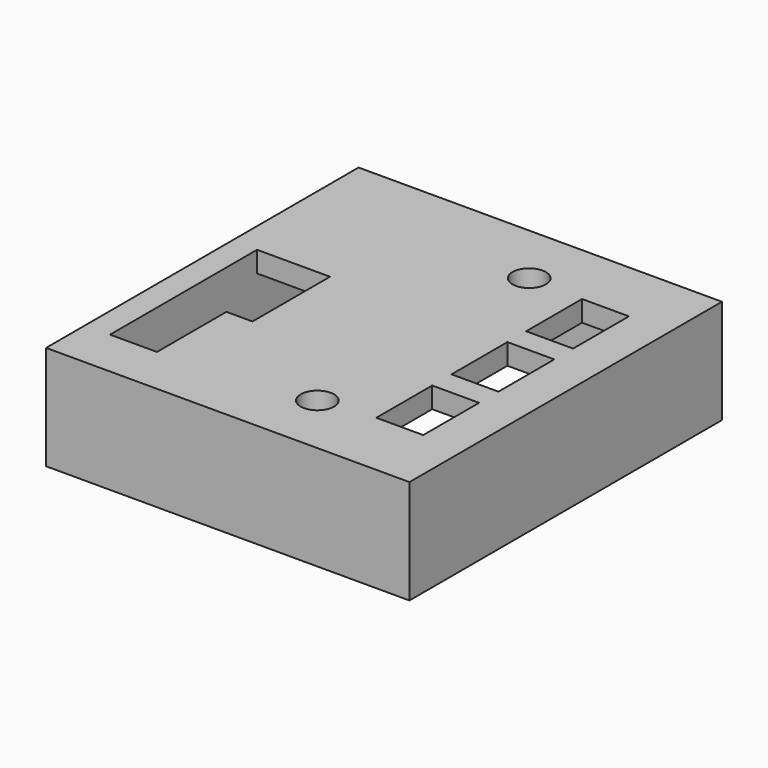
from build123d import *

# Parameters (mm, degrees)
F0_W     = 34.86
F0_H     = 37.47
F0_R     = 2.8
F0_W_2   = 4.5
F0_H_2   = 6.7
F0_R_2   = 1.6
F1_DEPTH = 2
F2_DEPTH = 8
F3_DEPTH = 2


with BuildPart() as f1:
    # F0 (on Top) → F1 (new body)
    with BuildSketch(Plane.XY):
        Rectangle(F0_W, F0_H)
        Polygon((15.03, 16.335), (15.03, -16.335), (-15.03, -16.335), (-15.03, -14.065), (-15.03, 3.565), (-15.03, 16.335), align=None, mode=Mode.SUBTRACT)
        Polygon((-15.03, -16.335), (15.03, -16.335), (15.03, 16.335), (-15.03, 16.335), (-15.03, 3.565), (-8.03, 3.565), (-8.03, -5.735), (-10.53, -5.735), (-10.53, -14.065), (-14.03, -14.065), (-15.03, -14.065), align=None)
        with Locations((3.77, -12.7)):
            Circle(F0_R, mode=Mode.SUBTRACT)
        with Locations((11.22, -8.785)):
            Rectangle(F0_W_2, F0_H_2, mode=Mode.SUBTRACT)
        with Locations((11.22, 0.235)):
            Rectangle(F0_W_2, F0_H_2, mode=Mode.SUBTRACT)
        with Locations((11.22, 9.185)):
            Rectangle(F0_W_2, F0_H_2, mode=Mode.SUBTRACT)
        with Locations((3.77, 12.7)):
            Circle(F0_R, mode=Mode.SUBTRACT)
        with Locations((3.77, 12.7)):
            Circle(F0_R)
        with Locations((3.77, 12.7)):
            Circle(F0_R_2, mode=Mode.SUBTRACT)
        with Locations((3.77, -12.7)):
            Circle(F0_R)
        with Locations((3.77, -12.7)):
            Circle(F0_R_2, mode=Mode.SUBTRACT)
    extrude(amount=F1_DEPTH)

    # F0 (on Top) → F2 (join)
    with BuildSketch(Plane.XY):
        Rectangle(F0_W, F0_H)
        Polygon((15.03, 16.335), (15.03, -16.335), (-15.03, -16.335), (-15.03, -14.065), (-15.03, 3.565), (-15.03, 16.335), align=None, mode=Mode.SUBTRACT)
    extrude(amount=-F2_DEPTH)

    # F0 (on Top) → F3 (join)
    with BuildSketch(Plane.XY):
        with Locations((3.77, 12.7)):
            Circle(F0_R)
        with Locations((3.77, 12.7)):
            Circle(F0_R_2, mode=Mode.SUBTRACT)
        with Locations((3.77, -12.7)):
            Circle(F0_R)
        with Locations((3.77, -12.7)):
            Circle(F0_R_2, mode=Mode.SUBTRACT)
    extrude(amount=-F3_DEPTH)


solid = f1.part
